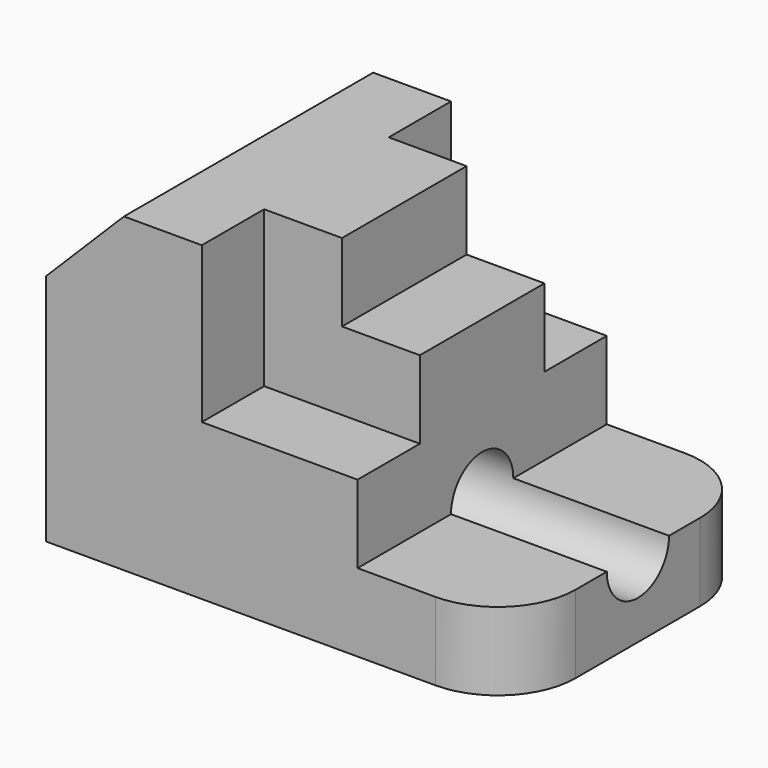
from build123d import *

# Parameters (mm, degrees)
F1_DEPTH  = 25.4
F2_W      = 12.7
F2_H      = 12.7
F3_DEPTH  = 25.4
F4_DEPTH  = 25.4
F5_W      = 12.7
F5_H      = 12.7
F6_DEPTH  = 12.7
F7_W      = 12.7
F7_H      = 12.7
F8_DEPTH  = 12.7
F10_DEPTH = 76.201
F11_R     = 12.7


with BuildPart() as f1:
    # F0 (on Front) → F1 (new body, symmetric)
    with BuildSketch(Plane.XZ):
        Polygon((0, 38.1), (0, 0), (76.2, 0), (76.2, 12.7), (50.8, 12.7), (50.8, 38.1), (38.1, 38.1), (38.1, 50.8), (12.7, 50.8), align=None)
    extrude(amount=F1_DEPTH, both=True)

    # F2 (on face) → F3 (cut)
    with BuildSketch(Plane.XY.offset(50.8)):
        with Locations((31.75, 19.05)):
            Rectangle(F2_W, F2_H)
    extrude(amount=-F3_DEPTH, mode=Mode.SUBTRACT)

    # F2 (on face) → F4 (cut)
    with BuildSketch(Plane.XY.offset(50.8)):
        with Locations((31.75, -19.05)):
            Rectangle(F2_W, F2_H)
    extrude(amount=-F4_DEPTH, mode=Mode.SUBTRACT)

    # F5 (on face) → F6 (cut)
    with BuildSketch(Plane.XZ.offset(25.4)):
        with Locations((44.45, 31.75)):
            Rectangle(F5_W, F5_H)
    extrude(amount=-F6_DEPTH, mode=Mode.SUBTRACT)

    # F7 (on face) → F8 (cut)
    with BuildSketch(Plane(origin=(0, 25.4, 0), x_dir=(-1, 0, 0), z_dir=(0, 1, 0))):
        with Locations((-44.45, 31.75)):
            Rectangle(F7_W, F7_H)
    extrude(amount=-F8_DEPTH, mode=Mode.SUBTRACT)

    # F9 (on face) → F10 (cut, through all)
    with BuildSketch(Plane.YZ.offset(76.2)):
        with BuildLine():
            Line((-6.35, 12.7), (6.35, 12.7))
            ThreePointArc((6.35, 12.7), (0, 19.05), (-6.35, 12.7))
        make_face()
        with BuildLine():
            ThreePointArc((-6.35, 12.7), (0, 6.35), (6.35, 12.7))
            Line((6.35, 12.7), (-6.35, 12.7))
        make_face()
    extrude(amount=-F10_DEPTH, mode=Mode.SUBTRACT)

    # F11
    f11_edges = [f1.edges().sort_by_distance(p)[0] for p in [
        (76.2, -25.4, 6.35),
        (76.2, 25.4, 6.35),
    ]]
    fillet(f11_edges, radius=F11_R)


solid = f1.part
